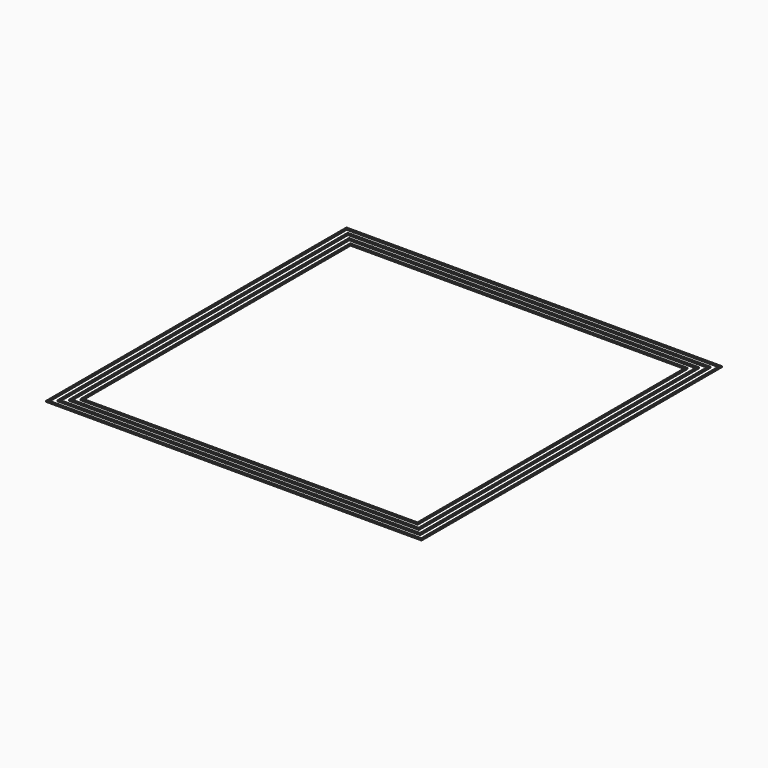
from build123d import *

# Parameters (mm, degrees)
F0_W     = 160
F0_H     = 160
F0_W_2   = 158.6
F0_H_2   = 158.6
F0_W_3   = 154.6
F0_H_3   = 154.6
F0_W_4   = 153.2
F0_H_4   = 153.2
F0_W_5   = 149.2
F0_H_5   = 149.2
F0_W_6   = 147.8
F0_H_6   = 147.8
F0_W_7   = 143.8
F0_H_7   = 143.8
F0_W_8   = 142.4
F0_H_8   = 142.4
F1_DEPTH = 0.4


with BuildPart() as f1:
    # F0 (on Top) → F1 (new body)
    with BuildSketch(Plane.XY):
        with Locations((0, 14.357793)):
            Rectangle(F0_W, F0_H)
        with Locations((0, 14.357793)):
            Rectangle(F0_W_2, F0_H_2, mode=Mode.SUBTRACT)
        with Locations((0, 14.357793)):
            Rectangle(F0_W_3, F0_H_3)
        with Locations((0, 14.357793)):
            Rectangle(F0_W_4, F0_H_4, mode=Mode.SUBTRACT)
        with Locations((0, 14.357793)):
            Rectangle(F0_W_5, F0_H_5)
        with Locations((0, 14.357793)):
            Rectangle(F0_W_6, F0_H_6, mode=Mode.SUBTRACT)
        with Locations((0, 14.357793)):
            Rectangle(F0_W_7, F0_H_7)
        with Locations((0, 14.357793)):
            Rectangle(F0_W_8, F0_H_8, mode=Mode.SUBTRACT)
    extrude(amount=F1_DEPTH)


solid = f1.part
